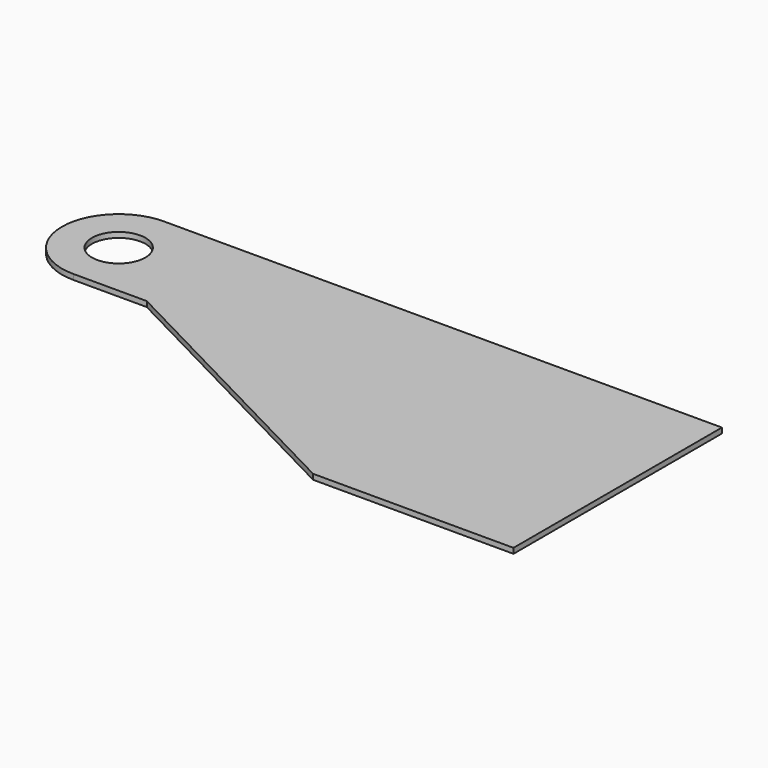
from build123d import *

# Parameters (mm, degrees)
F0_R     = 4
F1_DEPTH = 0.79375


with BuildPart() as f1:
    # F0 (on Top) → F1 (new body)
    with BuildSketch(Plane.XY):
        with BuildLine():
            Line((83.5, 8.5), (0, 8.5))
            ThreePointArc((0, 8.5), (-8.5, 0), (0, -8.5))
            Line((0, -8.5), (11, -8.5))
            Line((11, -8.5), (53.5, -30.5))
            Line((53.5, -30.5), (83.5, -30.5))
            Line((83.5, -30.5), (83.5, 8.5))
        make_face()
        Circle(F0_R, mode=Mode.SUBTRACT)
    extrude(amount=F1_DEPTH)


solid = f1.part
